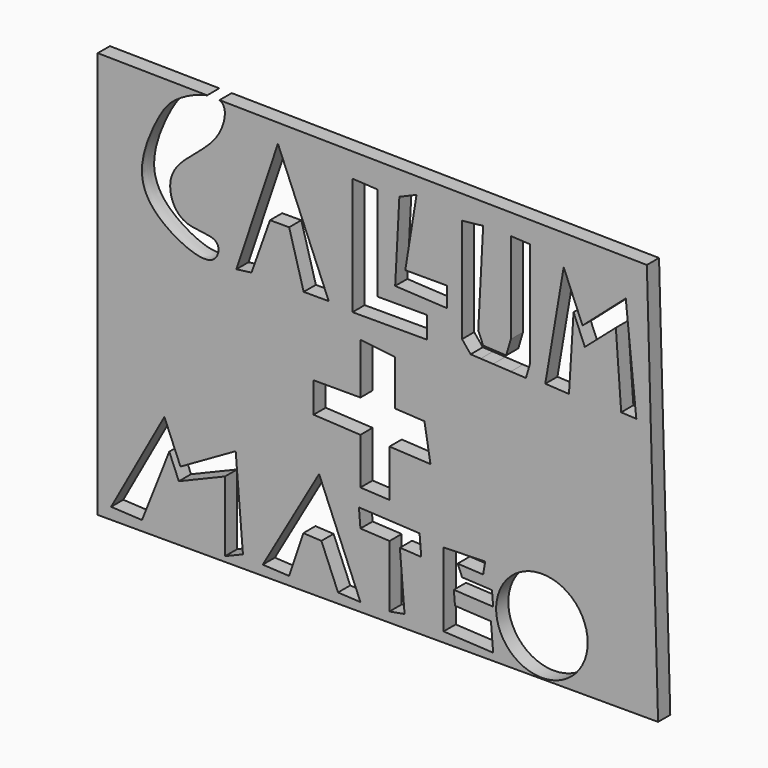
from build123d import *

# Parameters (mm, degrees)
F0_R     = 12.0300445465
F1_DEPTH = 4


with BuildPart() as f1:
    # F0 (on Front) → F1 (new body)
    with BuildSketch(Plane.XZ):
        with BuildLine():
            add(Edge.make_bspline(
                [(-51.517073065, 49.8692169785), (-54.6164711836, 48.0171055955), (-57.9732397932, 43.5175145949), (-64.2057426047, 28.5581561909), (-57.2019356759, 18.2399288793), (-42.6392432026, 12.0035799105), (-40.6559459772, 21.4666461937), (-52.4302351144, 19.2887594481), (-56.5033140512, 31.3521706241), (-47.1026408721, 38.590328812), (-40.563423389, 44.665361185), (-39.5708533621, 51.4986371042), (-41.384129942, 52.466124391), (-41.5416015443, 52.5298598494)],
                knots=[0, 0, 0, 0, 0.0892295044, 0.2003926069, 0.3015151058, 0.4063828736, 0.4680579017, 0.5546627521, 0.6439230859, 0.7400702389, 0.8305370512, 0.9045248096, 0.910932154, 0.910932154, 0.910932154, 0.910932154], degree=3))
            add(Edge.make_bspline(
                [(-44.7853297013, 52.5766443225), (-46.9791784585, 52.1409512456), (-49.5660584078, 51.0350873563), (-51.517073065, 49.8692169785)],
                knots=[0.9438316523, 0.9438316523, 0.9438316523, 0.9438316523, 1, 1, 1, 1], degree=3))
            Line((-44.7853297013, 52.5766443225), (-73.5462531447, 52.9914647341))
            Line((-73.5462531447, 52.9914647341), (-73.5462531447, -53.858757019))
            Line((-73.5462531447, -53.858757019), (73.7197175622, -53.858757019))
            Line((73.7197175622, -53.858757019), (70.7709267735, 50.9099699557))
            Line((70.7709267735, 50.9099699557), (-41.5416015443, 52.5298598494))
        make_face()
        Polygon((-54.742681822, -33.1018022917), (-61.9245618582, -51.2568838894), (-70.0272659035, -50.8304287042), (-56.0269840062, -25.4672017798), (-51.8067139403, -35.6068122516), (-37.2935049236, -27.3196585476), (-35.3854633868, -50.5630522966), (-40.1037498307, -52.5268795163), (-40.1037498307, -34.0845286846), (-52.2325170484, -39.1327179979), align=None, mode=Mode.SUBTRACT)
        Polygon((-23.243393749, -51.6220563997), (-30.1817189902, -51.2568838894), (-15.3727987967, -25.4672017798), (-4.5099123381, -51.5663460455), (-10.389733597, -51.2568838894), (-14.7657376005, -40.7431074425), (-19.5140424185, -40.4931983751), align=None, mode=Mode.SUBTRACT)
        Polygon((-4.5099123381, -4.2497245595), (-4.5099123381, 9.1065531597), (4.6191702269, 8.0658039078), (4.6191702269, -3.844655849), (12.3155284673, -4.2497245595), (13.9016113445, -13.6626154192), (3.1375800291, -13.0960913375), (3.1375800291, -25.4672017798), (-4.5099123381, -25.0647049397), (-4.5099123381, -12.8769812753), (-16.8254412711, -12.2287999839), (-16.8254412711, -4.2497245595), align=None, mode=Mode.SUBTRACT)
        Polygon((7.0885231353, -50.5630522966), (3.1375800291, -51.2568838894), (3.1375800291, -34.9518209696), (-4.5099123381, -34.5493241295), (-4.9014069475, -29.7802123571), (11.0372224126, -30.6190818379), (11.4723230555, -35.9193938953), (5.8621922288, -35.6241258751), align=None, mode=Mode.SUBTRACT)
        Polygon((17.345815897, -51.2568838894), (17.345815897, -31.8295732141), (28.284589117, -31.5107676877), (27.7426847126, -34.7037014665), (21.0419639668, -34.3510343703), (22.2026444972, -37.1396825555), (30.068846952, -37.5536903739), (30.3753046295, -41.2868986558), (20.0432007723, -40.7431074425), (20.3388671789, -44.3448585447), (29.7924494209, -44.8424120951), (30.3753046295, -51.942641755), align=None, mode=Mode.SUBTRACT)
        with Locations((43.1910790503, -41.5432304144)):
            Circle(F0_R, mode=Mode.SUBTRACT)
        Polygon((-33.1305079162, 15.3510468081), (-37.1200442314, 14.8306721821), (-26.1921808124, 47.4408045411), (-12.8359040245, 15.3510468081), (-19.4273144007, 15.3510468081), (-23.243393749, 29.0542412549), (-28.273679316, 29.0542412549), align=None, mode=Mode.SUBTRACT)
        Polygon((-6.5914099105, 14.8306721821), (-6.5914099105, 45.7062236965), (0, 45.3593097627), (0, 20.5547902733), (13.0093628541, 20.5547902733), (13.0093628541, 14.8306721821), align=None, mode=Mode.SUBTRACT)
        Polygon((4.6191702269, 24.5385780509), (5.7241199538, 45.5327667296), (10.2340299636, 47.4408045411), (7.2852415033, 29.0542412549), (18.2116690355, 29.0542412549), (18.2116690355, 23.8231882791), align=None, mode=Mode.SUBTRACT)
        Polygon((22.2026444972, 17.9529190063), (22.2026444972, 45.3593097627), (27.7472484163, 45.9698791885), (26.4525832232, 21.3710719499), (27.7426847126, 18.2714772869), (33.7953335203, 17.9529190063), (35.0184211311, 22.1159141511), (35.0184211311, 45.9698791885), (40.0279098077, 45.7062236965), (40.0279098077, 33.7376110256), (40.0279098077, 24.5385780509), (40.0279098077, 17.9529190063), (38.9878363627, 14.4128449646), (35.0184211311, 14.6217601241), (30.3753046295, 14.8661330021), (27.0978043062, 15.0386318371), (24.4576018304, 15.1775889099), align=None, mode=Mode.SUBTRACT)
        Polygon((51.5058212146, 33.7376110256), (50.3028668463, 14.4128449646), (44.0718992423, 14.7407883806), (48.9151999354, 43.277811259), (53.8606331153, 31.3959256746), (65.2202740312, 41.3697734475), (67.9955929518, 14.4128449646), (64.0261777202, 14.6217601241), (62.6183897257, 33.7376110256), (54.4658601284, 26.6258288175), align=None, mode=Mode.SUBTRACT)
    extrude(amount=F1_DEPTH)


solid = f1.part
